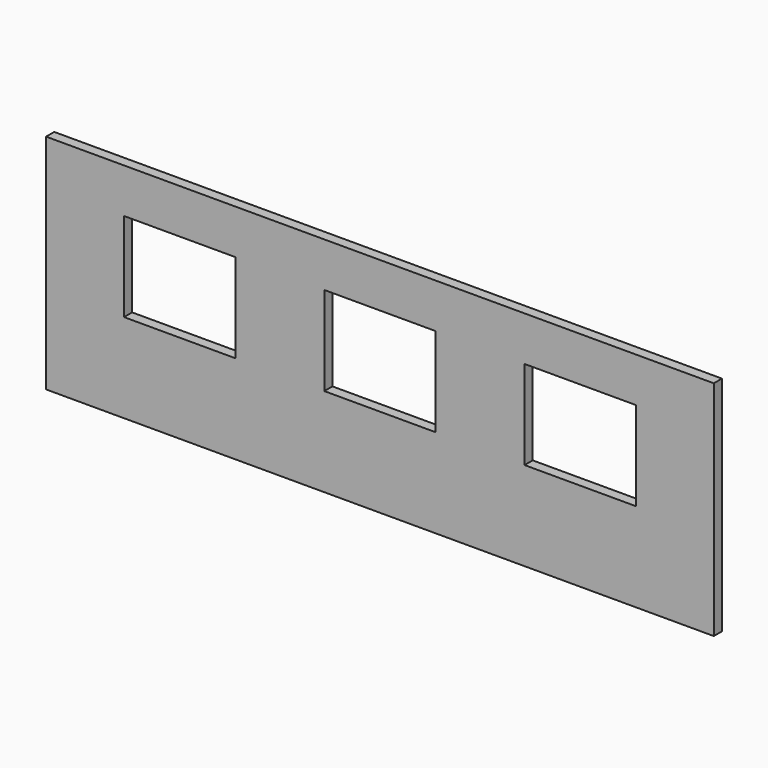
from build123d import *

# Parameters (mm, degrees)
F0_W     = 9144
F0_H     = 3048
F0_W_2   = 1524
F0_H_2   = 1219.2
F1_DEPTH = 139.7


with BuildPart() as f1:
    # F0 (on Front) → F1 (new body)
    with BuildSketch(Plane.XZ):
        with Locations((4572, 1524)):
            Rectangle(F0_W, F0_H)
        with Locations((1828.8, 1828.8)):
            Rectangle(F0_W_2, F0_H_2, mode=Mode.SUBTRACT)
        with Locations((4572, 1828.8)):
            Rectangle(F0_W_2, F0_H_2, mode=Mode.SUBTRACT)
        with Locations((7315.2, 1828.8)):
            Rectangle(F0_W_2, F0_H_2, mode=Mode.SUBTRACT)
    extrude(amount=-F1_DEPTH)


solid = f1.part
